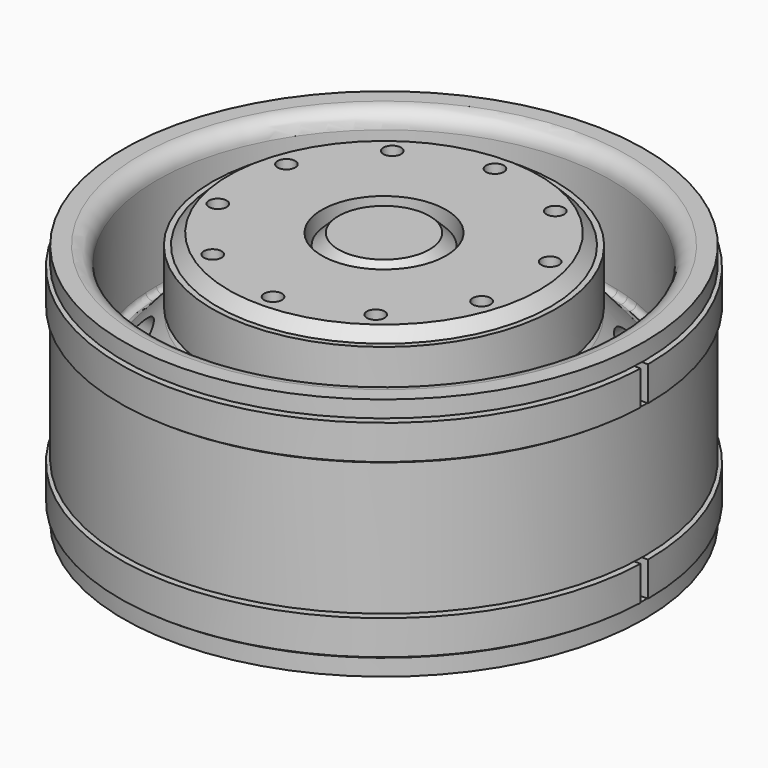
from build123d import *

# Parameters (mm, degrees)
CYLINDER104_R               = 8.5
CYLINDER104_DEPTH           = 3
CYLINDER103_R               = 10
CYLINDER103_DEPTH           = 3
CYLINDER046_R               = 0.8
CYLINDER046_DEPTH           = 20
CYLINDER045_R               = 0.8
CYLINDER045_DEPTH           = 20
FUSION028_PLACEMENT_ANGLE   = 54
CYLINDER052_R               = 0.8
CYLINDER052_DEPTH           = 20
CYLINDER051_R               = 0.8
CYLINDER051_DEPTH           = 20
FUSION032_PLACEMENT_ANGLE   = 162
CYLINDER050_R               = 0.8
CYLINDER050_DEPTH           = 20
CYLINDER049_R               = 0.8
CYLINDER049_DEPTH           = 20
FUSION034_PLACEMENT_ANGLE   = 126
CYLINDER048_R               = 0.8
CYLINDER048_DEPTH           = 20
CYLINDER047_R               = 0.8
CYLINDER047_DEPTH           = 20
FUSION035_PLACEMENT_ANGLE   = 90
CYLINDER044_R               = 0.8
CYLINDER044_DEPTH           = 20
CYLINDER043_R               = 0.8
CYLINDER043_DEPTH           = 20
FUSION031_PLACEMENT_ANGLE   = 18
CYLINDER062_R               = 3
CYLINDER062_DEPTH           = 4
CYLINDER061_R               = 5.6
CYLINDER061_DEPTH           = 4
CYLINDER060_R               = 5.6
CYLINDER060_DEPTH           = 4
CYLINDER042_R               = 7
CYLINDER042_DEPTH           = 1.5
CYLINDER041_R               = 10
CYLINDER041_DEPTH           = 6
CYLINDER058_R               = 15
CYLINDER058_DEPTH           = 6
CHAMFER_SIZE                = 1
CYLINDER069_R               = 22.45
CYLINDER069_DEPTH           = 17
CYLINDER068_W               = 23.8
CYLINDER068_H               = 3.1
CYLINDER068_ANGLE           = 178
CUT018_PLACEMENT_ANGLE      = 180
CYLINDER067_R               = 22.45
CYLINDER067_DEPTH           = 17
CYLINDER066_W               = 23.8
CYLINDER066_H               = 3.1
CYLINDER066_ANGLE           = 178
CUT017_PLACEMENT_ANGLE      = 180
CYLINDER109_R               = 5.1
CYLINDER109_DEPTH           = 3.8
CHAMFER006_SIZE             = 1
CYLINDER110_R               = 9
CYLINDER110_DEPTH           = 4.8
CYLINDER070_R               = 15.5
CYLINDER070_DEPTH           = 4.8
CYLINDER114_R               = 1.1
CYLINDER114_DEPTH           = 0.2
CYLINDER113_R               = 1.1
CYLINDER113_DEPTH           = 0.2
FUSION043_PLACEMENT_ANGLE   = 54
CYLINDER120_R               = 1.1
CYLINDER120_DEPTH           = 0.2
CYLINDER119_R               = 1.1
CYLINDER119_DEPTH           = 0.2
FUSION046_PLACEMENT_ANGLE   = 162
CYLINDER118_R               = 1.1
CYLINDER118_DEPTH           = 0.2
CYLINDER117_R               = 1.1
CYLINDER117_DEPTH           = 0.2
FUSION045_PLACEMENT_ANGLE   = 126
CYLINDER116_R               = 1.1
CYLINDER116_DEPTH           = 0.2
CYLINDER115_R               = 1.1
CYLINDER115_DEPTH           = 0.2
FUSION044_PLACEMENT_ANGLE   = 90
CYLINDER112_R               = 1.1
CYLINDER112_DEPTH           = 0.2
CYLINDER111_R               = 1.1
CYLINDER111_DEPTH           = 0.2
FUSION042_PLACEMENT_ANGLE   = 18
CYLINDER121_R               = 19.5
CYLINDER121_DEPTH           = 1.6
CYLINDER_R                  = 21
CYLINDER_DEPTH              = 1.6
CYLINDER102_R               = 10.1
CYLINDER102_DEPTH           = 26
CYLINDER095_R               = 1.1
CYLINDER095_DEPTH           = 10
CYLINDER094_R               = 1.1
CYLINDER094_DEPTH           = 10
FUSION022_PLACEMENT_ANGLE   = 54
CYLINDER101_R               = 1.1
CYLINDER101_DEPTH           = 10
CYLINDER100_R               = 1.1
CYLINDER100_DEPTH           = 10
FUSION025_PLACEMENT_ANGLE   = 162
CYLINDER099_R               = 1.1
CYLINDER099_DEPTH           = 10
CYLINDER098_R               = 1.1
CYLINDER098_DEPTH           = 10
FUSION024_PLACEMENT_ANGLE   = 126
CYLINDER097_R               = 1.1
CYLINDER097_DEPTH           = 10
CYLINDER096_R               = 1.1
CYLINDER096_DEPTH           = 10
FUSION023_PLACEMENT_ANGLE   = 90
CYLINDER093_R               = 1.1
CYLINDER093_DEPTH           = 10
CYLINDER092_R               = 1.1
CYLINDER092_DEPTH           = 10
FUSION021_PLACEMENT_ANGLE   = 18
CYLINDER085_R               = 2.5
CYLINDER085_DEPTH           = 8
CYLINDER085_PLACEMENT_ANGLE = 58
CYLINDER084_R               = 2.5
CYLINDER084_DEPTH           = 8
CYLINDER084_PLACEMENT_ANGLE = 58
FUSION016_PLACEMENT_ANGLE   = 36
CYLINDER087_R               = 2.5
CYLINDER087_DEPTH           = 8
CYLINDER087_PLACEMENT_ANGLE = 58
CYLINDER086_R               = 2.5
CYLINDER086_DEPTH           = 8
CYLINDER086_PLACEMENT_ANGLE = 58
FUSION017_PLACEMENT_ANGLE   = 72
CYLINDER089_R               = 2.5
CYLINDER089_DEPTH           = 8
CYLINDER089_PLACEMENT_ANGLE = 58
CYLINDER088_R               = 2.5
CYLINDER088_DEPTH           = 8
CYLINDER088_PLACEMENT_ANGLE = 58
FUSION018_PLACEMENT_ANGLE   = 108
CYLINDER091_R               = 2.5
CYLINDER091_DEPTH           = 8
CYLINDER091_PLACEMENT_ANGLE = 58
CYLINDER090_R               = 2.5
CYLINDER090_DEPTH           = 8
CYLINDER090_PLACEMENT_ANGLE = 58
FUSION019_PLACEMENT_ANGLE   = 144
CYLINDER082_R               = 2.5
CYLINDER082_DEPTH           = 8
CYLINDER082_PLACEMENT_ANGLE = 58
CYLINDER083_R               = 2.5
CYLINDER083_DEPTH           = 8
CYLINDER083_PLACEMENT_ANGLE = 58
CYLINDER081_R               = 10
CYLINDER081_DEPTH           = 26
FILLET003_R                 = 1.5
FILLET005_R                 = 1
CYLINDER079_R               = 20.5
CYLINDER079_DEPTH           = 12
CYLINDER080_R               = 20
CYLINDER080_DEPTH           = 7
CYLINDER078_R               = 18.5
CYLINDER078_DEPTH           = 22
CYLINDER075_R               = 22.1
CYLINDER075_DEPTH           = 19
CYLINDER074_R               = 23.5
CYLINDER074_DEPTH           = 19
CYLINDER073_R               = 23.5
CYLINDER073_DEPTH           = 22
CYLINDER076_R               = 22
CYLINDER076_DEPTH           = 12
CYLINDER077_R               = 23.5
CYLINDER077_DEPTH           = 12
CHAMFER002_SIZE             = 1.49
CHAMFER003_SIZE             = 2
FILLET004_R                 = 1.5
FILLET006_R                 = 0.5
CYLINDER106_R               = 8.55
CYLINDER106_DEPTH           = 4
CYLINDER105_R               = 10
CYLINDER105_DEPTH           = 3
FILLET_R                    = 1


with BuildPart() as cylinder104:
    # Cylinder104 → Cylinder104 (new body)
    with BuildSketch(Plane.XY.offset(11)):
        Circle(CYLINDER104_R)
    extrude(amount=CYLINDER104_DEPTH)


with BuildPart() as cut036:
    # Cylinder103 → Cylinder103 (new body)
    with BuildSketch(Plane.XY.offset(11)):
        Circle(CYLINDER103_R)
    extrude(amount=CYLINDER103_DEPTH)

    # Cut036: cut Cylinder104
    add(cylinder104.part, mode=Mode.SUBTRACT)


with BuildPart() as cylinder046:
    # Cylinder046 → Cylinder046 (new body)
    with BuildSketch(Plane(origin=(-12.5, 0, 13), x_dir=(1, 0, 0), z_dir=(0, 0, 1))):
        Circle(CYLINDER046_R)
    extrude(amount=CYLINDER046_DEPTH)


with BuildPart() as fusion028:
    # Cylinder045 → Cylinder045 (new body)
    with BuildSketch(Plane(origin=(12.5, 0, 13), x_dir=(1, 0, 0), z_dir=(0, 0, 1))):
        Circle(CYLINDER045_R)
    extrude(amount=CYLINDER045_DEPTH)

    # Fusion028: union Cylinder046
    add(cylinder046.part)


with BuildPart() as fusion028_1:
    # Fusion028 placement: moved
    add(fusion028.part.rotate(Axis((0, 0, 0), (0, 0, 1)), FUSION028_PLACEMENT_ANGLE))


with BuildPart() as cylinder052:
    # Cylinder052 → Cylinder052 (new body)
    with BuildSketch(Plane(origin=(-12.5, 0, 13), x_dir=(1, 0, 0), z_dir=(0, 0, 1))):
        Circle(CYLINDER052_R)
    extrude(amount=CYLINDER052_DEPTH)


with BuildPart() as fusion032:
    # Cylinder051 → Cylinder051 (new body)
    with BuildSketch(Plane(origin=(12.5, 0, 13), x_dir=(1, 0, 0), z_dir=(0, 0, 1))):
        Circle(CYLINDER051_R)
    extrude(amount=CYLINDER051_DEPTH)

    # Fusion032: union Cylinder052
    add(cylinder052.part)


with BuildPart() as fusion032_1:
    # Fusion032 placement: moved
    add(fusion032.part.rotate(Axis((0, 0, 0), (0, 0, 1)), FUSION032_PLACEMENT_ANGLE))


with BuildPart() as cylinder050:
    # Cylinder050 → Cylinder050 (new body)
    with BuildSketch(Plane(origin=(-12.5, 0, 13), x_dir=(1, 0, 0), z_dir=(0, 0, 1))):
        Circle(CYLINDER050_R)
    extrude(amount=CYLINDER050_DEPTH)


with BuildPart() as fusion034:
    # Cylinder049 → Cylinder049 (new body)
    with BuildSketch(Plane(origin=(12.5, 0, 13), x_dir=(1, 0, 0), z_dir=(0, 0, 1))):
        Circle(CYLINDER049_R)
    extrude(amount=CYLINDER049_DEPTH)

    # Fusion034: union Cylinder050
    add(cylinder050.part)


with BuildPart() as fusion034_1:
    # Fusion034 placement: moved
    add(fusion034.part.rotate(Axis((0, 0, 0), (0, 0, 1)), FUSION034_PLACEMENT_ANGLE))


with BuildPart() as cylinder048:
    # Cylinder048 → Cylinder048 (new body)
    with BuildSketch(Plane(origin=(-12.5, 0, 13), x_dir=(1, 0, 0), z_dir=(0, 0, 1))):
        Circle(CYLINDER048_R)
    extrude(amount=CYLINDER048_DEPTH)


with BuildPart() as fusion035:
    # Cylinder047 → Cylinder047 (new body)
    with BuildSketch(Plane(origin=(12.5, 0, 13), x_dir=(1, 0, 0), z_dir=(0, 0, 1))):
        Circle(CYLINDER047_R)
    extrude(amount=CYLINDER047_DEPTH)

    # Fusion035: union Cylinder048
    add(cylinder048.part)


with BuildPart() as fusion035_1:
    # Fusion035 placement: moved
    add(fusion035.part.rotate(Axis((0, 0, 0), (0, 0, 1)), FUSION035_PLACEMENT_ANGLE))


with BuildPart() as cylinder044:
    # Cylinder044 → Cylinder044 (new body)
    with BuildSketch(Plane(origin=(-12.5, 0, 13), x_dir=(1, 0, 0), z_dir=(0, 0, 1))):
        Circle(CYLINDER044_R)
    extrude(amount=CYLINDER044_DEPTH)


with BuildPart() as fusion036:
    # Cylinder043 → Cylinder043 (new body)
    with BuildSketch(Plane(origin=(12.5, 0, 13), x_dir=(1, 0, 0), z_dir=(0, 0, 1))):
        Circle(CYLINDER043_R)
    extrude(amount=CYLINDER043_DEPTH)

    # Fusion031: union Cylinder044
    add(cylinder044.part)


with BuildPart() as fusion036_1:
    # Fusion031 placement: moved
    add(fusion036.part.rotate(Axis((0, 0, 0), (0, 0, 1)), FUSION031_PLACEMENT_ANGLE))

    # Fusion036: union Fusion028, Fusion032, Fusion034, Fusion035
    add(fusion028_1.part)
    add(fusion032_1.part)
    add(fusion034_1.part)
    add(fusion035_1.part)


with BuildPart() as fusion036_2:
    # Fusion036 placement: moved
    add(fusion036_1.part.moved(Location((0, 0, 3))))


with BuildPart() as cylinder062:
    # Cylinder062 → Cylinder062 (new body)
    with BuildSketch(Plane.XY.offset(3)):
        Circle(CYLINDER062_R)
    extrude(amount=CYLINDER062_DEPTH)


with BuildPart() as cylinder061:
    # Cylinder061 → Cylinder061 (new body)
    with BuildSketch(Plane.XY):
        Circle(CYLINDER061_R)
    extrude(amount=CYLINDER061_DEPTH)


with BuildPart() as fusion033:
    # Cylinder060 → Cylinder060 (new body)
    with BuildSketch(Plane.XY.offset(6.5)):
        Circle(CYLINDER060_R)
    extrude(amount=CYLINDER060_DEPTH)

    # Fusion033: union Cylinder062, Cylinder061
    add(cylinder062.part)
    add(cylinder061.part)


with BuildPart() as fusion033_1:
    # Fusion033 placement: moved
    add(fusion033.part.moved(Location((0, 0, 4.5))))


with BuildPart() as cylinder042:
    # Cylinder042 → Cylinder042 (new body)
    with BuildSketch(Plane.XY.offset(3)):
        Circle(CYLINDER042_R)
    extrude(amount=CYLINDER042_DEPTH)


with BuildPart() as cylinder041:
    # Cylinder041 → Cylinder041 (new body)
    with BuildSketch(Plane.XY.offset(3)):
        Circle(CYLINDER041_R)
    extrude(amount=CYLINDER041_DEPTH)


with BuildPart() as hub_wide:
    # Cylinder058 → Cylinder058 (new body)
    with BuildSketch(Plane.XY.offset(9)):
        Circle(CYLINDER058_R)
    extrude(amount=CYLINDER058_DEPTH)

    # Fusion: union Cylinder041
    add(cylinder041.part)

    # Cut: cut Cylinder042
    add(cylinder042.part, mode=Mode.SUBTRACT)

    # Cut034: cut Fusion033
    add(fusion033_1.part, mode=Mode.SUBTRACT)


with BuildPart() as hub_wide_1:
    # Cut034 placement: moved
    add(hub_wide.part.moved(Location((0, 0, 8))))

    # Cut035: cut Fusion036
    add(fusion036_2.part, mode=Mode.SUBTRACT)

    # Cut037: cut Cut036
    add(cut036.part, mode=Mode.SUBTRACT)

    # Chamfer
    chamfer_edges = [hub_wide_1.edges().sort_by_distance(p)[0] for p in [
        (-15, 0, 23),
    ]]
    chamfer(chamfer_edges, length=CHAMFER_SIZE)


with BuildPart() as cylinder069:
    # Cylinder069 → Cylinder069 (new body)
    with BuildSketch(Plane.XY):
        Circle(CYLINDER069_R)
    extrude(amount=CYLINDER069_DEPTH)


with BuildPart() as cylinder068:
    # Cylinder068 → Cylinder068 (revolve)
    with BuildSketch(Plane(origin=(0, 0, 1.8), x_dir=(1, 0, 0), z_dir=(0, -1, 0))):
        with Locations((11.9, 1.55)):
            Rectangle(CYLINDER068_W, CYLINDER068_H)
    revolve(axis=Axis((0, 0, 1.8), (0, 0, 1)), revolution_arc=CYLINDER068_ANGLE)


with BuildPart() as cut018:
    # Cut018 base: copy of Cylinder068
    add(cylinder068.part)

    # Cut018: cut Cylinder069
    add(cylinder069.part, mode=Mode.SUBTRACT)


with BuildPart() as cut018_1:
    # Cut018 placement: moved
    add(cut018.part.rotate(Axis((0, 0, 0), (0, 0, 1)), CUT018_PLACEMENT_ANGLE))


with BuildPart() as cylinder067:
    # Cylinder067 → Cylinder067 (new body)
    with BuildSketch(Plane.XY):
        Circle(CYLINDER067_R)
    extrude(amount=CYLINDER067_DEPTH)


with BuildPart() as cylinder066:
    # Cylinder066 → Cylinder066 (revolve)
    with BuildSketch(Plane(origin=(0, 0, 1.8), x_dir=(1, 0, 0), z_dir=(0, -1, 0))):
        with Locations((11.9, 1.55)):
            Rectangle(CYLINDER066_W, CYLINDER066_H)
    revolve(axis=Axis((0, 0, 1.8), (0, 0, 1)), revolution_arc=CYLINDER066_ANGLE)


with BuildPart() as fusion041:
    # Cut019 base: copy of Cylinder066
    add(cylinder066.part)

    # Cut019: cut Cylinder067
    add(cylinder067.part, mode=Mode.SUBTRACT)

    # Fusion041: union Cut018
    add(cut018_1.part)


with BuildPart() as fusion041_1:
    # Fusion041 placement: moved
    add(fusion041.part.moved(Location((0, 0, -0.1))))


with BuildPart() as cut017:
    # Cut017 base: copy of Cylinder068
    add(cylinder068.part)

    # Cut017: cut Cylinder069
    add(cylinder069.part, mode=Mode.SUBTRACT)


with BuildPart() as cut017_1:
    # Cut017 placement: moved
    add(cut017.part.rotate(Axis((0, 0, 0), (0, 0, 1)), CUT017_PLACEMENT_ANGLE))


with BuildPart() as rim_support_lateral:
    # Cut016 base: copy of Cylinder066
    add(cylinder066.part)

    # Cut016: cut Cylinder067
    add(cylinder067.part, mode=Mode.SUBTRACT)

    # Fusion040: union Cut017
    add(cut017_1.part)


with BuildPart() as rim_support_lateral_1:
    # Fusion040 placement: moved
    add(rim_support_lateral.part.moved(Location((0, 0, 15.4))))

    # Fusion039: union Fusion041
    add(fusion041_1.part)


with BuildPart() as hub_support:
    # Cylinder109 → Cylinder109 (new body)
    with BuildSketch(Plane.XY):
        Circle(CYLINDER109_R)
    extrude(amount=CYLINDER109_DEPTH)

    # Chamfer006
    chamfer006_edges = [hub_support.edges().sort_by_distance(p)[0] for p in [
        (-5.1, 0, 3.8),
    ]]
    chamfer(chamfer006_edges, length=CHAMFER006_SIZE)


with BuildPart() as hub_support_1:
    # Chamfer006 placement: moved
    add(hub_support.part.moved(Location((0, 0, 19.2))))


with BuildPart() as cylinder110:
    # Cylinder110 → Cylinder110 (new body)
    with BuildSketch(Plane.XY.offset(17.2)):
        Circle(CYLINDER110_R)
    extrude(amount=CYLINDER110_DEPTH)


with BuildPart() as rim_support:
    # Cylinder070 → Cylinder070 (new body)
    with BuildSketch(Plane.XY.offset(17.2)):
        Circle(CYLINDER070_R)
    extrude(amount=CYLINDER070_DEPTH)

    # Cut039: cut Cylinder110
    add(cylinder110.part, mode=Mode.SUBTRACT)


with BuildPart() as cylinder114:
    # Cylinder114 → Cylinder114 (new body)
    with BuildSketch(Plane(origin=(-12.5, 0, 13), x_dir=(1, 0, 0), z_dir=(0, 0, 1))):
        Circle(CYLINDER114_R)
    extrude(amount=CYLINDER114_DEPTH)


with BuildPart() as fusion043:
    # Cylinder113 → Cylinder113 (new body)
    with BuildSketch(Plane(origin=(12.5, 0, 13), x_dir=(1, 0, 0), z_dir=(0, 0, 1))):
        Circle(CYLINDER113_R)
    extrude(amount=CYLINDER113_DEPTH)

    # Fusion043: union Cylinder114
    add(cylinder114.part)


with BuildPart() as fusion043_1:
    # Fusion043 placement: moved
    add(fusion043.part.rotate(Axis((0, 0, 0), (0, 0, 1)), FUSION043_PLACEMENT_ANGLE))


with BuildPart() as cylinder120:
    # Cylinder120 → Cylinder120 (new body)
    with BuildSketch(Plane(origin=(-12.5, 0, 13), x_dir=(1, 0, 0), z_dir=(0, 0, 1))):
        Circle(CYLINDER120_R)
    extrude(amount=CYLINDER120_DEPTH)


with BuildPart() as fusion046:
    # Cylinder119 → Cylinder119 (new body)
    with BuildSketch(Plane(origin=(12.5, 0, 13), x_dir=(1, 0, 0), z_dir=(0, 0, 1))):
        Circle(CYLINDER119_R)
    extrude(amount=CYLINDER119_DEPTH)

    # Fusion046: union Cylinder120
    add(cylinder120.part)


with BuildPart() as fusion046_1:
    # Fusion046 placement: moved
    add(fusion046.part.rotate(Axis((0, 0, 0), (0, 0, 1)), FUSION046_PLACEMENT_ANGLE))


with BuildPart() as cylinder118:
    # Cylinder118 → Cylinder118 (new body)
    with BuildSketch(Plane(origin=(-12.5, 0, 13), x_dir=(1, 0, 0), z_dir=(0, 0, 1))):
        Circle(CYLINDER118_R)
    extrude(amount=CYLINDER118_DEPTH)


with BuildPart() as fusion045:
    # Cylinder117 → Cylinder117 (new body)
    with BuildSketch(Plane(origin=(12.5, 0, 13), x_dir=(1, 0, 0), z_dir=(0, 0, 1))):
        Circle(CYLINDER117_R)
    extrude(amount=CYLINDER117_DEPTH)

    # Fusion045: union Cylinder118
    add(cylinder118.part)


with BuildPart() as fusion045_1:
    # Fusion045 placement: moved
    add(fusion045.part.rotate(Axis((0, 0, 0), (0, 0, 1)), FUSION045_PLACEMENT_ANGLE))


with BuildPart() as cylinder116:
    # Cylinder116 → Cylinder116 (new body)
    with BuildSketch(Plane(origin=(-12.5, 0, 13), x_dir=(1, 0, 0), z_dir=(0, 0, 1))):
        Circle(CYLINDER116_R)
    extrude(amount=CYLINDER116_DEPTH)


with BuildPart() as fusion044:
    # Cylinder115 → Cylinder115 (new body)
    with BuildSketch(Plane(origin=(12.5, 0, 13), x_dir=(1, 0, 0), z_dir=(0, 0, 1))):
        Circle(CYLINDER115_R)
    extrude(amount=CYLINDER115_DEPTH)

    # Fusion044: union Cylinder116
    add(cylinder116.part)


with BuildPart() as fusion044_1:
    # Fusion044 placement: moved
    add(fusion044.part.rotate(Axis((0, 0, 0), (0, 0, 1)), FUSION044_PLACEMENT_ANGLE))


with BuildPart() as cylinder112:
    # Cylinder112 → Cylinder112 (new body)
    with BuildSketch(Plane(origin=(-12.5, 0, 13), x_dir=(1, 0, 0), z_dir=(0, 0, 1))):
        Circle(CYLINDER112_R)
    extrude(amount=CYLINDER112_DEPTH)


with BuildPart() as rim_support_holes:
    # Cylinder111 → Cylinder111 (new body)
    with BuildSketch(Plane(origin=(12.5, 0, 13), x_dir=(1, 0, 0), z_dir=(0, 0, 1))):
        Circle(CYLINDER111_R)
    extrude(amount=CYLINDER111_DEPTH)

    # Fusion042: union Cylinder112
    add(cylinder112.part)


with BuildPart() as rim_support_holes_1:
    # Fusion042 placement: moved
    add(rim_support_holes.part.rotate(Axis((0, 0, 0), (0, 0, 1)), FUSION042_PLACEMENT_ANGLE))

    # Fusion047: union Fusion043, Fusion046, Fusion045, Fusion044
    add(fusion043_1.part)
    add(fusion046_1.part)
    add(fusion045_1.part)
    add(fusion044_1.part)


with BuildPart() as rim_support_holes_2:
    # Fusion047 placement: moved
    add(rim_support_holes_1.part.moved(Location((0, 0, 3.8))))


with BuildPart() as cylinder121:
    # Cylinder121 → Cylinder121 (new body)
    with BuildSketch(Plane.XY.offset(10)):
        Circle(CYLINDER121_R)
    extrude(amount=CYLINDER121_DEPTH)


with BuildPart() as cut040:
    # Cylinder → Cylinder (new body)
    with BuildSketch(Plane.XY.offset(10)):
        Circle(CYLINDER_R)
    extrude(amount=CYLINDER_DEPTH)

    # Cut040: cut Cylinder121
    add(cylinder121.part, mode=Mode.SUBTRACT)


with BuildPart() as cylinder102:
    # Cylinder102 → Cylinder102 (new body)
    with BuildSketch(Plane.XY):
        Circle(CYLINDER102_R)
    extrude(amount=CYLINDER102_DEPTH)


with BuildPart() as cylinder095:
    # Cylinder095 → Cylinder095 (new body)
    with BuildSketch(Plane(origin=(-12.5, 0, 13), x_dir=(1, 0, 0), z_dir=(0, 0, 1))):
        Circle(CYLINDER095_R)
    extrude(amount=CYLINDER095_DEPTH)


with BuildPart() as fusion022:
    # Cylinder094 → Cylinder094 (new body)
    with BuildSketch(Plane(origin=(12.5, 0, 13), x_dir=(1, 0, 0), z_dir=(0, 0, 1))):
        Circle(CYLINDER094_R)
    extrude(amount=CYLINDER094_DEPTH)

    # Fusion022: union Cylinder095
    add(cylinder095.part)


with BuildPart() as fusion022_1:
    # Fusion022 placement: moved
    add(fusion022.part.rotate(Axis((0, 0, 0), (0, 0, 1)), FUSION022_PLACEMENT_ANGLE))


with BuildPart() as cylinder101:
    # Cylinder101 → Cylinder101 (new body)
    with BuildSketch(Plane(origin=(-12.5, 0, 13), x_dir=(1, 0, 0), z_dir=(0, 0, 1))):
        Circle(CYLINDER101_R)
    extrude(amount=CYLINDER101_DEPTH)


with BuildPart() as fusion025:
    # Cylinder100 → Cylinder100 (new body)
    with BuildSketch(Plane(origin=(12.5, 0, 13), x_dir=(1, 0, 0), z_dir=(0, 0, 1))):
        Circle(CYLINDER100_R)
    extrude(amount=CYLINDER100_DEPTH)

    # Fusion025: union Cylinder101
    add(cylinder101.part)


with BuildPart() as fusion025_1:
    # Fusion025 placement: moved
    add(fusion025.part.rotate(Axis((0, 0, 0), (0, 0, 1)), FUSION025_PLACEMENT_ANGLE))


with BuildPart() as cylinder099:
    # Cylinder099 → Cylinder099 (new body)
    with BuildSketch(Plane(origin=(-12.5, 0, 13), x_dir=(1, 0, 0), z_dir=(0, 0, 1))):
        Circle(CYLINDER099_R)
    extrude(amount=CYLINDER099_DEPTH)


with BuildPart() as fusion024:
    # Cylinder098 → Cylinder098 (new body)
    with BuildSketch(Plane(origin=(12.5, 0, 13), x_dir=(1, 0, 0), z_dir=(0, 0, 1))):
        Circle(CYLINDER098_R)
    extrude(amount=CYLINDER098_DEPTH)

    # Fusion024: union Cylinder099
    add(cylinder099.part)


with BuildPart() as fusion024_1:
    # Fusion024 placement: moved
    add(fusion024.part.rotate(Axis((0, 0, 0), (0, 0, 1)), FUSION024_PLACEMENT_ANGLE))


with BuildPart() as cylinder097:
    # Cylinder097 → Cylinder097 (new body)
    with BuildSketch(Plane(origin=(-12.5, 0, 13), x_dir=(1, 0, 0), z_dir=(0, 0, 1))):
        Circle(CYLINDER097_R)
    extrude(amount=CYLINDER097_DEPTH)


with BuildPart() as fusion023:
    # Cylinder096 → Cylinder096 (new body)
    with BuildSketch(Plane(origin=(12.5, 0, 13), x_dir=(1, 0, 0), z_dir=(0, 0, 1))):
        Circle(CYLINDER096_R)
    extrude(amount=CYLINDER096_DEPTH)

    # Fusion023: union Cylinder097
    add(cylinder097.part)


with BuildPart() as fusion023_1:
    # Fusion023 placement: moved
    add(fusion023.part.rotate(Axis((0, 0, 0), (0, 0, 1)), FUSION023_PLACEMENT_ANGLE))


with BuildPart() as cylinder093:
    # Cylinder093 → Cylinder093 (new body)
    with BuildSketch(Plane(origin=(-12.5, 0, 13), x_dir=(1, 0, 0), z_dir=(0, 0, 1))):
        Circle(CYLINDER093_R)
    extrude(amount=CYLINDER093_DEPTH)


with BuildPart() as fusion026:
    # Cylinder092 → Cylinder092 (new body)
    with BuildSketch(Plane(origin=(12.5, 0, 13), x_dir=(1, 0, 0), z_dir=(0, 0, 1))):
        Circle(CYLINDER092_R)
    extrude(amount=CYLINDER092_DEPTH)

    # Fusion021: union Cylinder093
    add(cylinder093.part)


with BuildPart() as fusion026_1:
    # Fusion021 placement: moved
    add(fusion026.part.rotate(Axis((0, 0, 0), (0, 0, 1)), FUSION021_PLACEMENT_ANGLE))

    # Fusion026: union Fusion022, Fusion025, Fusion024, Fusion023
    add(fusion022_1.part)
    add(fusion025_1.part)
    add(fusion024_1.part)
    add(fusion023_1.part)


with BuildPart() as fusion026_2:
    # Fusion026 placement: moved
    add(fusion026_1.part.moved(Location((0, 0, -5))))


with BuildPart() as cylinder085:
    # Cylinder085 → Cylinder085 (new body)
    with BuildSketch(Plane.XY):
        Circle(CYLINDER085_R)
    extrude(amount=CYLINDER085_DEPTH)


with BuildPart() as cylinder085_1:
    # Cylinder085 placement: moved
    add(cylinder085.part.moved(Location((12, 0, 16))).rotate(Axis((12, 0, 16), (0, 1, 0)), CYLINDER085_PLACEMENT_ANGLE))


with BuildPart() as part_mirroring006:
    # Part__Mirroring006: instance of Cylinder085
    add(cylinder085_1.part.mirror(Plane(origin=(0, 0, 0), x_dir=(0, -1, 0), z_dir=(1, 0, 0))))


with BuildPart() as fusion016:
    # Cylinder084 → Cylinder084 (new body)
    with BuildSketch(Plane.XY):
        Circle(CYLINDER084_R)
    extrude(amount=CYLINDER084_DEPTH)


with BuildPart() as fusion016_1:
    # Cylinder084 placement: moved
    add(fusion016.part.moved(Location((12, 0, 16))).rotate(Axis((12, 0, 16), (0, 1, 0)), CYLINDER084_PLACEMENT_ANGLE))

    # Fusion016: union Part__Mirroring006
    add(part_mirroring006.part)


with BuildPart() as fusion016_2:
    # Fusion016 placement: moved
    add(fusion016_1.part.rotate(Axis((0, 0, 0), (0, 0, 1)), FUSION016_PLACEMENT_ANGLE))


with BuildPart() as cylinder087:
    # Cylinder087 → Cylinder087 (new body)
    with BuildSketch(Plane.XY):
        Circle(CYLINDER087_R)
    extrude(amount=CYLINDER087_DEPTH)


with BuildPart() as cylinder087_1:
    # Cylinder087 placement: moved
    add(cylinder087.part.moved(Location((12, 0, 16))).rotate(Axis((12, 0, 16), (0, 1, 0)), CYLINDER087_PLACEMENT_ANGLE))


with BuildPart() as part_mirroring007:
    # Part__Mirroring007: instance of Cylinder087
    add(cylinder087_1.part.mirror(Plane(origin=(0, 0, 0), x_dir=(0, -1, 0), z_dir=(1, 0, 0))))


with BuildPart() as fusion017:
    # Cylinder086 → Cylinder086 (new body)
    with BuildSketch(Plane.XY):
        Circle(CYLINDER086_R)
    extrude(amount=CYLINDER086_DEPTH)


with BuildPart() as fusion017_1:
    # Cylinder086 placement: moved
    add(fusion017.part.moved(Location((12, 0, 16))).rotate(Axis((12, 0, 16), (0, 1, 0)), CYLINDER086_PLACEMENT_ANGLE))

    # Fusion017: union Part__Mirroring007
    add(part_mirroring007.part)


with BuildPart() as fusion017_2:
    # Fusion017 placement: moved
    add(fusion017_1.part.rotate(Axis((0, 0, 0), (0, 0, 1)), FUSION017_PLACEMENT_ANGLE))


with BuildPart() as cylinder089:
    # Cylinder089 → Cylinder089 (new body)
    with BuildSketch(Plane.XY):
        Circle(CYLINDER089_R)
    extrude(amount=CYLINDER089_DEPTH)


with BuildPart() as cylinder089_1:
    # Cylinder089 placement: moved
    add(cylinder089.part.moved(Location((12, 0, 16))).rotate(Axis((12, 0, 16), (0, 1, 0)), CYLINDER089_PLACEMENT_ANGLE))


with BuildPart() as part_mirroring008:
    # Part__Mirroring008: instance of Cylinder089
    add(cylinder089_1.part.mirror(Plane(origin=(0, 0, 0), x_dir=(0, -1, 0), z_dir=(1, 0, 0))))


with BuildPart() as fusion018:
    # Cylinder088 → Cylinder088 (new body)
    with BuildSketch(Plane.XY):
        Circle(CYLINDER088_R)
    extrude(amount=CYLINDER088_DEPTH)


with BuildPart() as fusion018_1:
    # Cylinder088 placement: moved
    add(fusion018.part.moved(Location((12, 0, 16))).rotate(Axis((12, 0, 16), (0, 1, 0)), CYLINDER088_PLACEMENT_ANGLE))

    # Fusion018: union Part__Mirroring008
    add(part_mirroring008.part)


with BuildPart() as fusion018_2:
    # Fusion018 placement: moved
    add(fusion018_1.part.rotate(Axis((0, 0, 0), (0, 0, 1)), FUSION018_PLACEMENT_ANGLE))


with BuildPart() as cylinder091:
    # Cylinder091 → Cylinder091 (new body)
    with BuildSketch(Plane.XY):
        Circle(CYLINDER091_R)
    extrude(amount=CYLINDER091_DEPTH)


with BuildPart() as cylinder091_1:
    # Cylinder091 placement: moved
    add(cylinder091.part.moved(Location((12, 0, 16))).rotate(Axis((12, 0, 16), (0, 1, 0)), CYLINDER091_PLACEMENT_ANGLE))


with BuildPart() as part_mirroring009:
    # Part__Mirroring009: instance of Cylinder091
    add(cylinder091_1.part.mirror(Plane(origin=(0, 0, 0), x_dir=(0, -1, 0), z_dir=(1, 0, 0))))


with BuildPart() as fusion019:
    # Cylinder090 → Cylinder090 (new body)
    with BuildSketch(Plane.XY):
        Circle(CYLINDER090_R)
    extrude(amount=CYLINDER090_DEPTH)


with BuildPart() as fusion019_1:
    # Cylinder090 placement: moved
    add(fusion019.part.moved(Location((12, 0, 16))).rotate(Axis((12, 0, 16), (0, 1, 0)), CYLINDER090_PLACEMENT_ANGLE))

    # Fusion019: union Part__Mirroring009
    add(part_mirroring009.part)


with BuildPart() as fusion019_2:
    # Fusion019 placement: moved
    add(fusion019_1.part.rotate(Axis((0, 0, 0), (0, 0, 1)), FUSION019_PLACEMENT_ANGLE))


with BuildPart() as cylinder082:
    # Cylinder082 → Cylinder082 (new body)
    with BuildSketch(Plane.XY):
        Circle(CYLINDER082_R)
    extrude(amount=CYLINDER082_DEPTH)


with BuildPart() as cylinder082_1:
    # Cylinder082 placement: moved
    add(cylinder082.part.moved(Location((12, 0, 16))).rotate(Axis((12, 0, 16), (0, 1, 0)), CYLINDER082_PLACEMENT_ANGLE))


with BuildPart() as part_mirroring005:
    # Part__Mirroring005: instance of Cylinder082
    add(cylinder082_1.part.mirror(Plane(origin=(0, 0, 0), x_dir=(0, -1, 0), z_dir=(1, 0, 0))))


with BuildPart() as fusion020:
    # Cylinder083 → Cylinder083 (new body)
    with BuildSketch(Plane.XY):
        Circle(CYLINDER083_R)
    extrude(amount=CYLINDER083_DEPTH)


with BuildPart() as fusion020_1:
    # Cylinder083 placement: moved
    add(fusion020.part.moved(Location((12, 0, 16))).rotate(Axis((12, 0, 16), (0, 1, 0)), CYLINDER083_PLACEMENT_ANGLE))

    # Fusion015: union Part__Mirroring005
    add(part_mirroring005.part)

    # Fusion020: union Fusion016, Fusion017, Fusion018, Fusion019
    add(fusion016_2.part)
    add(fusion017_2.part)
    add(fusion018_2.part)
    add(fusion019_2.part)


with BuildPart() as fusion020_2:
    # Fusion020 placement: moved
    add(fusion020_1.part.moved(Location((0, 0, -6))))


with BuildPart() as cone003:
    # Cone003 → Cone003 (revolve)
    with BuildSketch(Plane(origin=(0, 0, 9), x_dir=(1, 0, 0), z_dir=(0, -1, 0))):
        Polygon((0, 0), (24, 0), (15, 10), (0, 10), align=None)
    revolve(axis=Axis((0, 0, 9), (0, 0, 1)))


with BuildPart() as cylinder081:
    # Cylinder081 → Cylinder081 (new body)
    with BuildSketch(Plane.XY):
        Circle(CYLINDER081_R)
    extrude(amount=CYLINDER081_DEPTH)


with BuildPart() as fillet005:
    # Cone002 → Cone002 (revolve)
    with BuildSketch(Plane(origin=(0, 0, 15), x_dir=(1, 0, 0), z_dir=(0, -1, 0))):
        Polygon((0, 0), (21, 0), (15, 7), (0, 7), align=None)
    revolve(axis=Axis((0, 0, 15), (0, 0, 1)))

    # Cut027: cut Cylinder081
    add(cylinder081.part, mode=Mode.SUBTRACT)

    # Cut028: cut Cone003
    add(cone003.part, mode=Mode.SUBTRACT)


with BuildPart() as fillet005_1:
    # Cut028 placement: moved
    add(fillet005.part.moved(Location((0, 0, -5))))

    # Cut029: cut Fusion020
    add(fusion020_2.part, mode=Mode.SUBTRACT)

    # Cut030: cut Fusion026
    add(fusion026_2.part, mode=Mode.SUBTRACT)

    # Cut031: cut Cylinder102
    add(cylinder102.part, mode=Mode.SUBTRACT)

    # Fillet003
    fillet003_edges = [fillet005_1.edges().sort_by_distance(p)[0] for p in [
        (-15, 0, 17),
    ]]
    fillet(fillet003_edges, radius=FILLET003_R)

    # Fusion048: union Cut040
    add(cut040.part)

    # Fillet005
    fillet005_edges = [fillet005_1.edges().sort_by_distance(p)[0] for p in [
        (-19.628571, 0, 11.6),
    ]]
    fillet(fillet005_edges, radius=FILLET005_R)


with BuildPart() as cylinder079:
    # Cylinder079 → Cylinder079 (new body)
    with BuildSketch(Plane.XY.offset(10)):
        Circle(CYLINDER079_R)
    extrude(amount=CYLINDER079_DEPTH)


with BuildPart() as cylinder080:
    # Cylinder080 → Cylinder080 (new body)
    with BuildSketch(Plane.XY):
        Circle(CYLINDER080_R)
    extrude(amount=CYLINDER080_DEPTH)


with BuildPart() as cylinder078:
    # Cylinder078 → Cylinder078 (new body)
    with BuildSketch(Plane.XY):
        Circle(CYLINDER078_R)
    extrude(amount=CYLINDER078_DEPTH)


with BuildPart() as cylinder075:
    # Cylinder075 → Cylinder075 (new body)
    with BuildSketch(Plane.XY):
        Circle(CYLINDER075_R)
    extrude(amount=CYLINDER075_DEPTH)


with BuildPart() as cut022:
    # Cylinder074 → Cylinder074 (new body)
    with BuildSketch(Plane.XY):
        Circle(CYLINDER074_R)
    extrude(amount=CYLINDER074_DEPTH)

    # Cut022: cut Cylinder075
    add(cylinder075.part, mode=Mode.SUBTRACT)


with BuildPart() as cut022_1:
    # Cut022 placement: moved
    add(cut022.part.moved(Location((0, 0, 1.5))))


with BuildPart() as cut023:
    # Cylinder073 → Cylinder073 (new body)
    with BuildSketch(Plane.XY):
        Circle(CYLINDER073_R)
    extrude(amount=CYLINDER073_DEPTH)

    # Cut023: cut Cut022
    add(cut022_1.part, mode=Mode.SUBTRACT)


with BuildPart() as cylinder076:
    # Cylinder076 → Cylinder076 (new body)
    with BuildSketch(Plane.XY):
        Circle(CYLINDER076_R)
    extrude(amount=CYLINDER076_DEPTH)


with BuildPart() as rim_wide:
    # Cylinder077 → Cylinder077 (new body)
    with BuildSketch(Plane.XY.offset(0.5)):
        Circle(CYLINDER077_R)
    extrude(amount=CYLINDER077_DEPTH)

    # Cut024: cut Cylinder076
    add(cylinder076.part, mode=Mode.SUBTRACT)


with BuildPart() as rim_wide_1:
    # Cut024 placement: moved
    add(rim_wide.part.moved(Location((0, 0, 4.5))))

    # Fusion014: union Cut023
    add(cut023.part)

    # Cut025: cut Cylinder078
    add(cylinder078.part, mode=Mode.SUBTRACT)

    # Cut032: cut Cylinder080
    add(cylinder080.part, mode=Mode.SUBTRACT)

    # Cut033: cut Cylinder079
    add(cylinder079.part, mode=Mode.SUBTRACT)

    # Chamfer002
    chamfer002_edges = [rim_wide_1.edges().sort_by_distance(p)[0] for p in [
        (-20, 0, 7),
    ]]
    chamfer(chamfer002_edges, length=CHAMFER002_SIZE)

    # Chamfer003
    chamfer003_edges = [rim_wide_1.edges().sort_by_distance(p)[0] for p in [
        (-20, 0, 0),
    ]]
    chamfer(chamfer003_edges, length=CHAMFER003_SIZE)

    # Fillet004
    fillet004_edges = [rim_wide_1.edges().sort_by_distance(p)[0] for p in [
        (-22, 0, 0),
        (-20.5, 0, 22),
    ]]
    fillet(fillet004_edges, radius=FILLET004_R)

    # Fusion049: union Fillet005
    add(fillet005_1.part)

    # Fillet006
    fillet006_edges = [rim_wide_1.edges().sort_by_distance(p)[0] for p in [
        (-20.5, 0, 11.6),
    ]]
    fillet(fillet006_edges, radius=FILLET006_R)


with BuildPart() as cylinder106:
    # Cylinder106 → Cylinder106 (new body)
    with BuildSketch(Plane.XY.offset(10)):
        Circle(CYLINDER106_R)
    extrude(amount=CYLINDER106_DEPTH)


with BuildPart() as fusion050:
    # Cone004 → Cone004 (revolve)
    with BuildSketch(Plane(origin=(0, 0, 4), x_dir=(1, 0, 0), z_dir=(0, -1, 0))):
        Polygon((0, 0), (5, 0), (8.5, 6), (0, 6), align=None)
    revolve(axis=Axis((0, 0, 4), (0, 0, 1)))

    # Fusion050: union Cylinder106
    add(cylinder106.part)


with BuildPart() as cylinder105:
    # Cylinder105 → Cylinder105 (new body)
    with BuildSketch(Plane.XY.offset(11)):
        Circle(CYLINDER105_R)
    extrude(amount=CYLINDER105_DEPTH)


with BuildPart() as hub_wide_cap:
    # Cone → Cone (revolve)
    with BuildSketch(Plane(origin=(0, 0, 3), x_dir=(1, 0, 0), z_dir=(0, -1, 0))):
        Polygon((0, 0), (6, 0), (10, 8), (0, 8), align=None)
    revolve(axis=Axis((0, 0, 3), (0, 0, 1)))

    # Fusion037: union Cylinder105
    add(cylinder105.part)

    # Cut041: cut Fusion050
    add(fusion050.part, mode=Mode.SUBTRACT)

    # Fillet
    fillet_edges = [hub_wide_cap.edges().sort_by_distance(p)[0] for p in [
        (-6, 0, 3),
        (-10, 0, 11),
    ]]
    fillet(fillet_edges, radius=FILLET_R)


solid = Compound([hub_wide_1.part, rim_support_lateral_1.part, hub_support_1.part, rim_support.part, rim_support_holes_2.part, rim_wide_1.part, hub_wide_cap.part])
